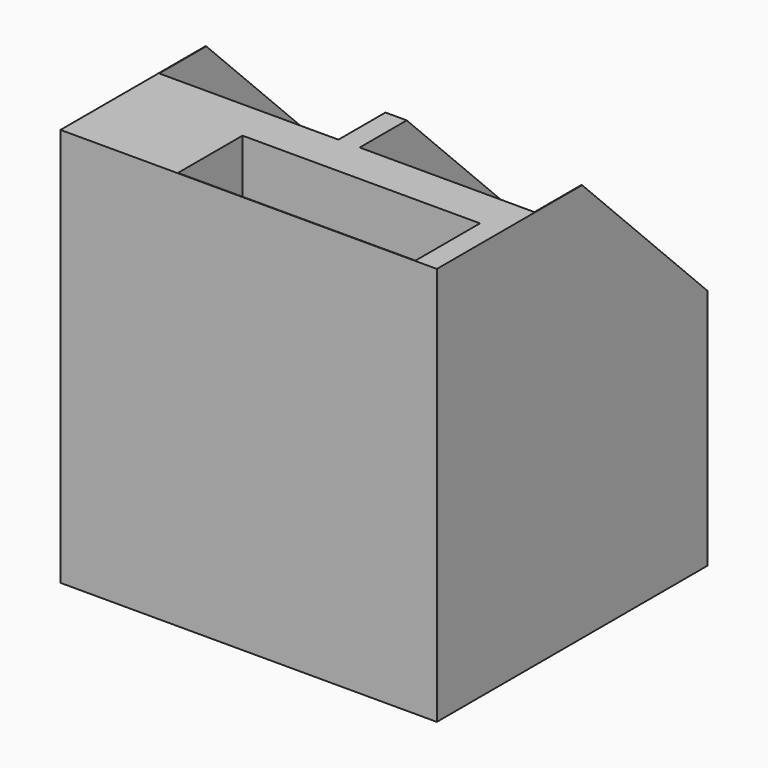
from build123d import *

# Parameters (mm, degrees)
F0_W     = 2133.6
F0_H     = 1917.7
F1_DEPTH = 2260.6
F2_W     = 990.6
F2_H     = 1219.2
F2_W_2   = 1016
F3_DEPTH = 2260.601
F4_W     = 1346.2
F4_H     = 457.2
F5_DEPTH = 2260.601
F7_DEPTH = 2133.601


with BuildPart() as f1:
    # F0 (on Top) → F1 (new body)
    with BuildSketch(Plane.XY):
        with Locations((1066.8, 958.85)):
            Rectangle(F0_W, F0_H)
    extrude(amount=F1_DEPTH)

    # F2 (on face) → F3 (cut, through all)
    with BuildSketch(Plane.XY.offset(2260.6)):
        with Locations((1635.125, 1304.925)):
            Rectangle(F2_W, F2_H)
        with Locations((511.175, 1304.925)):
            Rectangle(F2_W_2, F2_H)
    extrude(amount=-F3_DEPTH, mode=Mode.SUBTRACT)

    # F4 (on face) → F5 (cut, through all)
    with BuildSketch(Plane.XY.offset(2260.6)):
        with Locations((1336.675, 231.775)):
            Rectangle(F4_W, F4_H)
    extrude(amount=-F5_DEPTH, mode=Mode.SUBTRACT)

    # F6 (on face) → F7 (cut, through all)
    with BuildSketch(Plane.YZ.offset(2133.6)):
        Polygon((1917.7, 1371.6), (1917.7, 2260.6), (1028.7, 2260.6), align=None)
    extrude(amount=-F7_DEPTH, mode=Mode.SUBTRACT)


solid = f1.part
